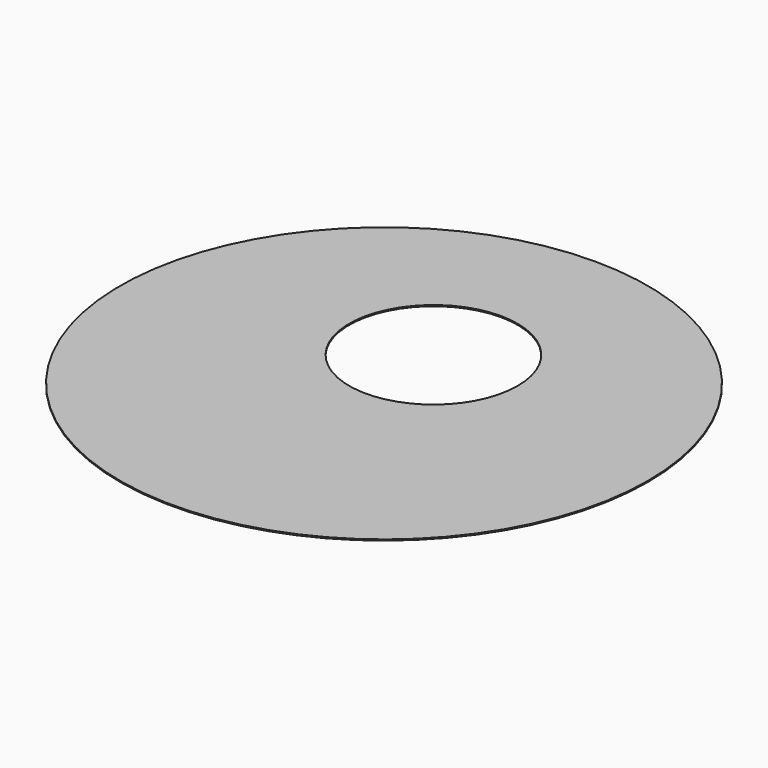
from build123d import *

# Parameters (mm, degrees)
F0_W     = 235
F0_H     = 110
F2_T     = -1
F4_DEPTH = 1


with BuildPart() as f1:
    # F0 (on Front) → F1 (revolve)
    with BuildSketch(Plane.XZ):
        with Locations((-117.5, 55)):
            Rectangle(F0_W, F0_H)
    revolve(axis=Axis((0, 0, 55), (0, 0, -1)))

    # F2
    f2_openings = [f1.faces().sort_by_distance(p)[0] for p in [
        (0, 0, 0),
    ]]
    offset(amount=F2_T, openings=f2_openings)


with BuildPart() as f4:
    # F3 (on face) → F4 (new body)
    with BuildSketch(Plane.XY.offset(110)):
        with BuildLine():
            ThreePointArc((235, 0), (166.170094, 166.170094), (0, 235))
            ThreePointArc((0, 235), (-166.170094, -166.170094), (235, 0))
        make_face()
        with BuildLine():
            ThreePointArc((140, 55), (-98.994949, -43.994949), (0, 195))
            ThreePointArc((0, 195), (98.994949, 153.994949), (140, 55))
        make_face(mode=Mode.SUBTRACT)
        with BuildLine():
            ThreePointArc((140, 55), (98.994949, 153.994949), (0, 195))
            ThreePointArc((0, 195), (-98.994949, -43.994949), (140, 55))
        make_face()
        with BuildLine():
            ThreePointArc((75, 55), (-53.033009, 1.966991), (0, 130))
            ThreePointArc((0, 130), (53.033009, 108.033009), (75, 55))
        make_face(mode=Mode.SUBTRACT)
    extrude(amount=F4_DEPTH)


solid = f4.part
